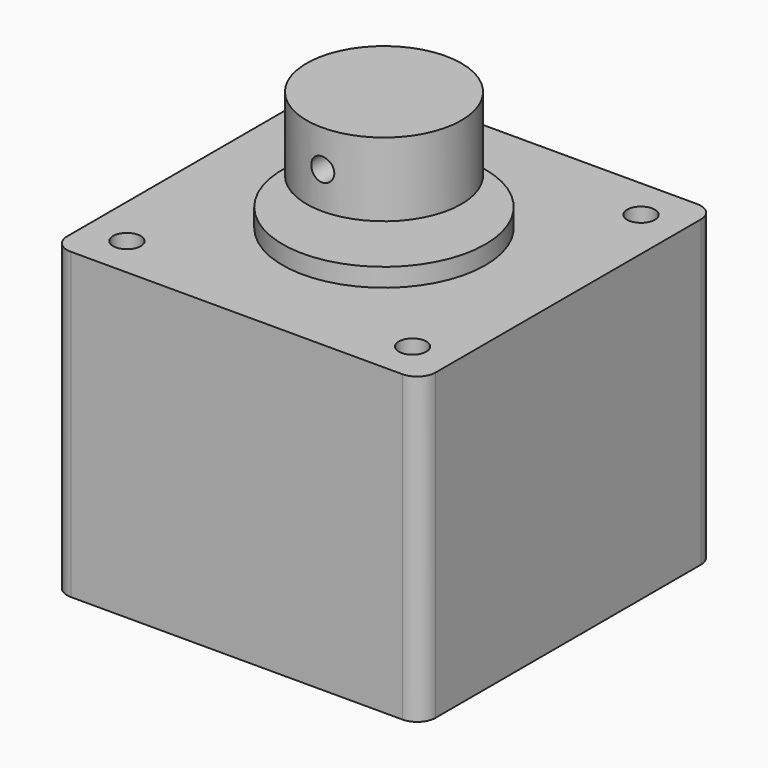
from build123d import *

# Parameters (mm, degrees)
F1_DEPTH      = 33
F2_R          = 11
F3_DEPTH      = 2
F5_START      = 5
F4_R          = 8.4
F5_DEPTH      = 8
F6_R          = 2.5
F7_DEPTH      = 40
F7_DEPTH_BACK = 4.3
F8_R          = 1.5
F9_DEPTH      = 10
F10_R         = 1.25
F11_DEPTH     = 25


with BuildPart() as f1:
    # F0 (on Top) → F1 (new body)
    with BuildSketch(Plane.XY):
        with BuildLine():
            ThreePointArc((20, 18), (19.4142135624, 19.4142135624), (18, 20))
            Line((18, 20), (-18, 20))
            ThreePointArc((-18, 20), (-19.4142135624, 19.4142135624), (-20, 18))
            Line((-20, 18), (-20, -18))
            ThreePointArc((-20, -18), (-19.4142135624, -19.4142135624), (-18, -20))
            Line((-18, -20), (18, -20))
            ThreePointArc((18, -20), (19.4142135624, -19.4142135624), (20, -18))
            Line((20, -18), (20, 18))
        make_face()
    extrude(amount=F1_DEPTH)

    # F2 (on face) → F3 (join)
    with BuildSketch(Plane.XY.offset(33)):
        Circle(F2_R)
    extrude(amount=F3_DEPTH)

    # F8 (on face) → F9 (cut)
    with BuildSketch(Plane.XY.offset(33)):
        with Locations((15.5, 15.5)):
            Circle(F8_R)
        with Locations((-15.5, 15.5)):
            Circle(F8_R)
        with Locations((-15.5, -15.5)):
            Circle(F8_R)
        with Locations((15.5, -15.5)):
            Circle(F8_R)
    extrude(amount=-F9_DEPTH, mode=Mode.SUBTRACT)


with BuildPart() as f5:
    # F4 (on face) → F5 (new body)
    with BuildSketch(Plane.XY.offset(33).offset(F5_START)):
        Circle(F4_R)
    extrude(amount=F5_DEPTH)

    # F10 (on Front) → F11 (cut)
    with BuildSketch(Plane.XZ):
        with Locations((0, 42)):
            Circle(F10_R)
    extrude(amount=F11_DEPTH, mode=Mode.SUBTRACT)


with BuildPart() as f7:
    # F6 (on Top) → F7 (new body, two sides)
    with BuildSketch(Plane.XY) as f7_sk:
        Circle(F6_R)
    extrude(amount=F7_DEPTH)
    extrude(f7_sk.sketch, amount=-F7_DEPTH_BACK)


solid = Compound([f1.part, f5.part, f7.part])
